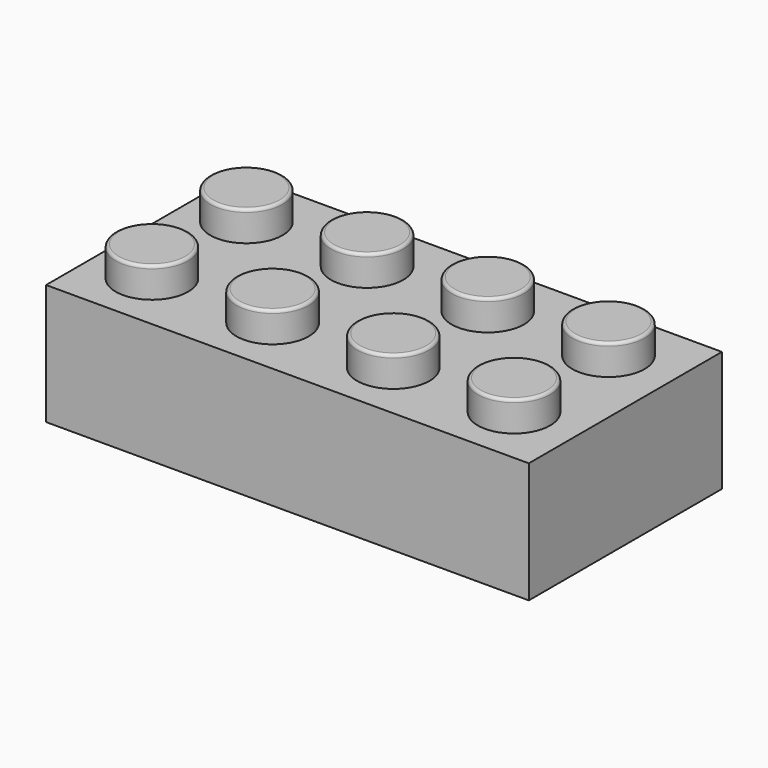
from build123d import *

# Parameters (mm, degrees)
F0_W     = 160
F0_H     = 80
F1_DEPTH = 40
F2_W     = 144
F2_H     = 64
F3_DEPTH = 30
F4_R     = 12
F5_DEPTH = 10
F6_R     = 1


with BuildPart() as f1:
    # F0 (on Top) → F1 (new body)
    with BuildSketch(Plane.XY):
        with Locations((-33.848104, 44.933982)):
            Rectangle(F0_W, F0_H)
    extrude(amount=F1_DEPTH)

    # F2 (on face) → F3 (cut)
    with BuildSketch(Plane(origin=(0, 0, 0), x_dir=(1, 0, 0), z_dir=(0, 0, -1))):
        with Locations((-33.848104, -44.933982)):
            Rectangle(F2_W, F2_H)
    extrude(amount=-F3_DEPTH, mode=Mode.SUBTRACT)

    # F4 (on face) → F5 (join)
    with BuildSketch(Plane.XY.offset(40)):
        with Locations((-95.449977, 64.933982)):
            Circle(F4_R)
        with Locations((-94.772625, 24.939718)):
            Circle(F4_R)
        with Locations((-55.449977, 64.933982)):
            Circle(F4_R)
        with Locations((-54.772625, 24.939718)):
            Circle(F4_R)
        with Locations((-15.449977, 64.933982)):
            Circle(F4_R)
        with Locations((-14.772625, 24.939718)):
            Circle(F4_R)
        with Locations((24.550023, 64.933982)):
            Circle(F4_R)
        with Locations((25.227375, 24.939718)):
            Circle(F4_R)
    extrude(amount=F5_DEPTH)

    # F6
    f6_edges = [f1.edges().sort_by_distance(p)[0] for p in [
        (-107.449977, 64.933982, 50),
        (-67.449977, 64.933982, 50),
        (-27.449977, 64.933982, 50),
        (12.550023, 64.933982, 50),
        (-106.772625, 24.939718, 50),
        (-66.772625, 24.939718, 50),
        (-26.772625, 24.939718, 50),
        (13.227375, 24.939718, 50),
    ]]
    fillet(f6_edges, radius=F6_R)


solid = f1.part
